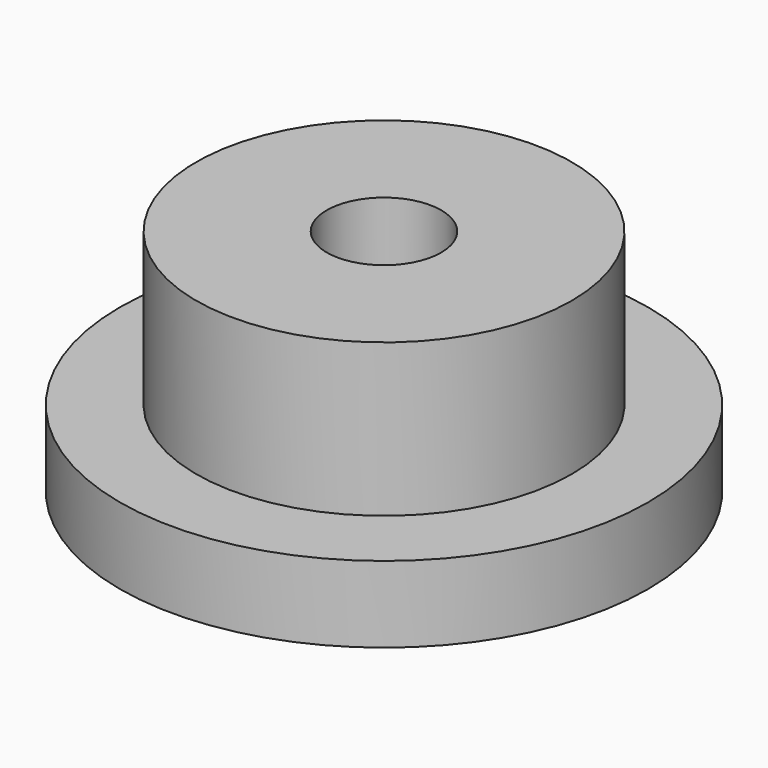
from build123d import *

# Parameters (mm, degrees)
F0_R     = 21.971
F0_R_2   = 15.621
F1_DEPTH = 6.35
F2_DEPTH = 19.05
F3_R     = 4.7625
F4_DEPTH = 19.051


with BuildPart() as f1:
    # F0 (on Top) → F1 (new body)
    with BuildSketch(Plane.XY):
        Circle(F0_R)
        Circle(F0_R_2, mode=Mode.SUBTRACT)
    extrude(amount=F1_DEPTH)

    # F0 (on Top) → F2 (join)
    with BuildSketch(Plane.XY):
        Circle(F0_R_2)
    extrude(amount=F2_DEPTH)

    # F3 (on face) → F4 (cut, through all)
    with BuildSketch(Plane.XY.offset(19.05)):
        Circle(F3_R)
    extrude(amount=-F4_DEPTH, mode=Mode.SUBTRACT)


solid = f1.part
